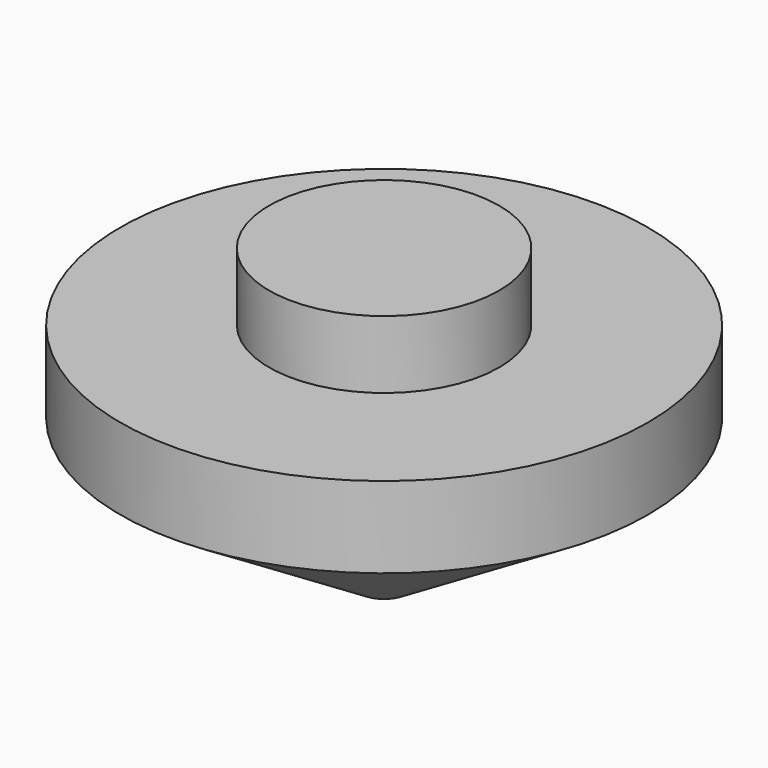
from build123d import *


with BuildPart() as f1:
    # F0 (on Front) → F1 (revolve)
    with BuildSketch(Plane.XZ):
        with BuildLine():
            ThreePointArc((0, 5.493611), (2.679797, 4.795669), (4.678679, 2.879187))
            Line((4.678679, 2.879187), (49.53, 30.48))
            Line((49.53, 30.48), (49.53, 45.72))
            Line((49.53, 45.72), (21.59, 45.72))
            Line((21.59, 45.72), (21.59, 58.42))
            Line((21.59, 58.42), (0, 58.42))
            Line((0, 58.42), (0, 5.493611))
        make_face()
    revolve(axis=Axis((0, 0, 29.21), (0, 0, -1)))


solid = f1.part
